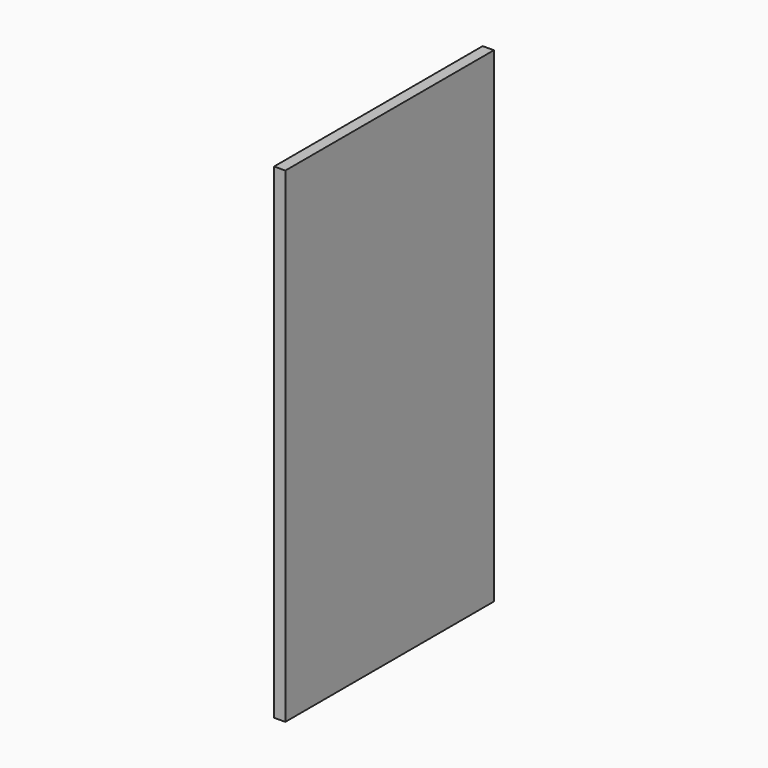
from build123d import *

# Parameters (mm, degrees)
SKETCH_W  = 420
SKETCH_H  = 782
PAD_DEPTH = 18


with BuildPart() as part:
    # Sketch → Pad (new body)
    with BuildSketch(Plane.YZ):
        with Locations((-210, 391)):
            Rectangle(SKETCH_W, SKETCH_H)
    extrude(amount=PAD_DEPTH)


solid = part.part
